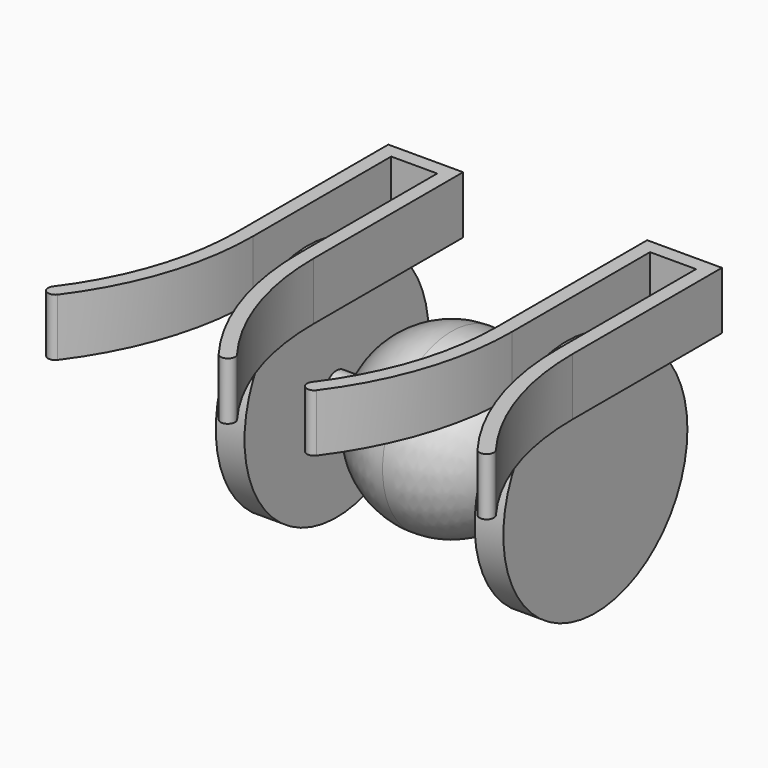
from build123d import *

# Parameters (mm, degrees)
F4_DEPTH = 20


with BuildPart() as f1:
    # F0 (on Top) → F1 (revolve)
    with BuildSketch(Plane.XY):
        with BuildLine():
            ThreePointArc((0, 30), (-19.364917, 22.912878), (-29.580399, 5))
            Line((-29.580399, 5), (-40, 5))
            Line((-40, 5), (-40, 40))
            Line((-40, 40), (-50, 40))
            Line((-50, 40), (-50, 0))
            Line((-50, 0), (0, 0))
            Line((0, 0), (50, 0))
            Line((50, 0), (50, 40))
            Line((50, 40), (40, 40))
            Line((40, 40), (40, 5))
            Line((40, 5), (29.580399, 5))
            ThreePointArc((29.580399, 5), (19.364917, 22.912878), (0, 30))
        make_face()
    revolve(axis=Axis((-25, 0, 0), (1, 0, 0)))


with BuildPart() as f4:
    # F3 (on offset) → F4 (new body)
    with BuildSketch(Plane.XY.offset(50)):
        with BuildLine():
            Line((-53, -20), (-53, 40))
            Line((-53, 40), (-37, 40))
            Line((-37, 40), (-37, -20))
            ThreePointArc((-37, -20), (-31.86833, -51.622777), (-17, -80))
            ThreePointArc((-17, -80), (-13.5, -80.5), (-13, -77))
            ThreePointArc((-13, -77), (-27.124913, -50.041638), (-32, -20))
            Line((-32, -20), (-32, 45))
            Line((-32, 45), (-58, 45))
            Line((-58, 45), (-58, -20))
            ThreePointArc((-58, -20), (-62.875087, -50.041638), (-77, -77))
            ThreePointArc((-77, -77), (-76.5, -80.5), (-73, -80))
            ThreePointArc((-73, -80), (-58.13167, -51.622777), (-53, -20))
        make_face()
        with BuildLine():
            ThreePointArc((13, -77), (13.5, -80.5), (17, -80))
            ThreePointArc((17, -80), (31.86833, -51.622777), (37, -20))
            Line((37, -20), (37, 40))
            Line((37, 40), (53, 40))
            Line((53, 40), (53, -20))
            ThreePointArc((53, -20), (58.13167, -51.622777), (73, -80))
            ThreePointArc((73, -80), (76.5, -80.5), (77, -77))
            ThreePointArc((77, -77), (62.875087, -50.041638), (58, -20))
            Line((58, -20), (58, 45))
            Line((58, 45), (32, 45))
            Line((32, 45), (32, -20))
            ThreePointArc((32, -20), (27.124913, -50.041638), (13, -77))
        make_face()
    extrude(amount=-F4_DEPTH)


solid = Compound([f1.part, f4.part])
